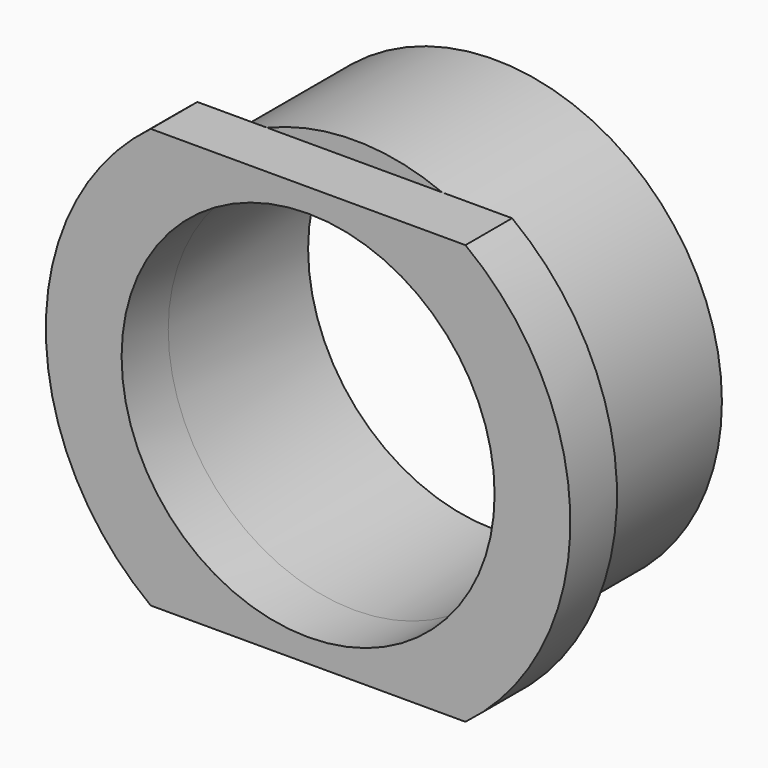
from build123d import *

# Parameters (mm, degrees)
F0_R     = 16
F1_DEPTH = 5
F2_R     = 19.5
F2_R_2   = 16
F3_DEPTH = 15


with BuildPart() as f1:
    # F0 (on Front) → F1 (new body)
    with BuildSketch(Plane.XZ):
        with BuildLine():
            ThreePointArc((13.5, -18), (22.5, 0), (13.5, 18))
            Line((13.5, 18), (-13.5, 18))
            ThreePointArc((-13.5, 18), (-22.5, 0), (-13.5, -18))
            Line((-13.5, -18), (13.5, -18))
        make_face()
        Circle(F0_R, mode=Mode.SUBTRACT)
    extrude(amount=F1_DEPTH)

    # F2 (on Front) → F3 (join)
    with BuildSketch(Plane.XZ):
        Circle(F2_R)
        Circle(F2_R_2, mode=Mode.SUBTRACT)
    extrude(amount=-F3_DEPTH)


solid = f1.part
